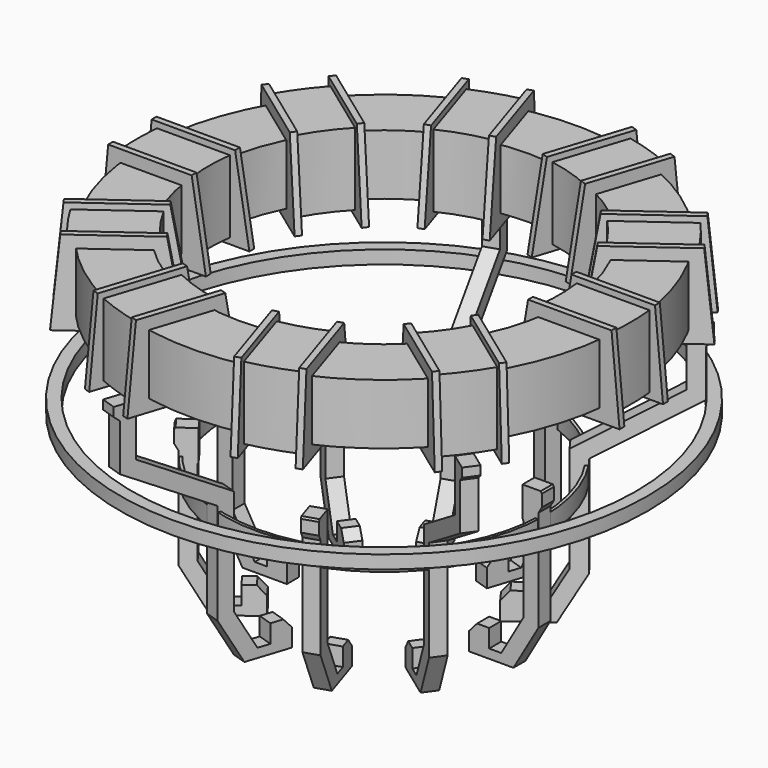
from build123d import *

# Parameters (mm, degrees)
F0_R      = 40
F0_R_2    = 30
F1_DEPTH  = 10
F3_DEPTH  = 5
F5_T      = -1
F6_COUNT  = 10
F8_DEPTH  = 1.25
F9_COUNT  = 5
F11_START = -22
F10_R     = 26.5919608623
F10_R_2   = 26.1099514262
F11_DEPTH = 3
F13_START = -13.5
F12_R     = 43.7427271605
F12_R_2   = 41.7427271605
F13_DEPTH = 2.2


with BuildPart() as f1:
    # F0 (on Top) → F1 (new body)
    with BuildSketch(Plane.XY):
        Circle(F0_R)
        Circle(F0_R_2, mode=Mode.SUBTRACT)
    extrude(amount=F1_DEPTH)


with BuildPart() as f3:
    # F2 (on Front) → F3 (new body, symmetric)
    with BuildSketch(Plane.XZ):
        Polygon((-27.8717149049, 12), (-41.7029336095, 12), (-43.0326461792, -2), (-35.168197006, -2), (-35.168197006, 1.563154161), (-33.2385227084, 1.563154161), (-33.2385227084, -2), (-25.5132131279, -2), align=None)
    extrude(amount=F3_DEPTH, both=True)

    # F4: cut F1
    add(f1.part, mode=Mode.SUBTRACT)

    # F5
    f5_openings = [f3.faces().sort_by_distance(p)[0] for p in [
        (-34.787324, 0, 12),
        (-42.36779, 0, 5),
        (-39.100422, 0, -2),
        (-29.375868, 0, -2),
        (-26.692464, 0, 5),
        (-35.168197, 0, -1),
        (-33.238523, 0, -1),
    ]]
    offset(amount=F5_T, openings=f5_openings, kind=Kind.INTERSECTION)


with BuildPart() as f6_1:
    # F6: instance of F3
    add(f3.part.rotate(Axis((0, 0, 0), (0, 0, -1)), 1 * 360 / F6_COUNT))


with BuildPart() as f6_2:
    # F6: instance of F3
    add(f3.part.rotate(Axis((0, 0, 0), (0, 0, -1)), 2 * 360 / F6_COUNT))


with BuildPart() as f6_3:
    # F6: instance of F3
    add(f3.part.rotate(Axis((0, 0, 0), (0, 0, -1)), 3 * 360 / F6_COUNT))


with BuildPart() as f6_4:
    # F6: instance of F3
    add(f3.part.rotate(Axis((0, 0, 0), (0, 0, -1)), 4 * 360 / F6_COUNT))


with BuildPart() as f6_5:
    # F6: instance of F3
    add(f3.part.rotate(Axis((0, 0, 0), (0, 0, -1)), 5 * 360 / F6_COUNT))


with BuildPart() as f6_6:
    # F6: instance of F3
    add(f3.part.rotate(Axis((0, 0, 0), (0, 0, -1)), 6 * 360 / F6_COUNT))


with BuildPart() as f6_7:
    # F6: instance of F3
    add(f3.part.rotate(Axis((0, 0, 0), (0, 0, -1)), 7 * 360 / F6_COUNT))


with BuildPart() as f6_8:
    # F6: instance of F3
    add(f3.part.rotate(Axis((0, 0, 0), (0, 0, -1)), 8 * 360 / F6_COUNT))


with BuildPart() as f6_9:
    # F6: instance of F3
    add(f3.part.rotate(Axis((0, 0, 0), (0, 0, -1)), 9 * 360 / F6_COUNT))


with BuildPart() as f8:
    # F7 (on Front) → F8 (new body, symmetric)
    with BuildSketch(Plane.XZ):
        Polygon((16.4247393726, -40.5), (15.1018637171, -42), (15.1018637171, -45), (22.4454653148, -45), (26.5919608623, -37.8180590384), (26.5919608623, -21.0505625422), (27.1483764005, -20.0868225598), (27.1483764005, -18.0868225598), (26.960394784, -17.7612288491), (23.960394784, -17.7612288491), (23.960394784, -22.7612288491), (24.0919608623, -22.9891079812), (24.0919608623, -37.1481860573), (20.4247393726, -43.5), (18.4247393726, -43.5), (18.4247393726, -40.5), align=None)
    extrude(amount=F8_DEPTH, both=True)


with BuildPart() as f8b:
    # F7 (on Front) → F8, piece 2 (new body, symmetric)
    with BuildSketch(Plane.XZ):
        Polygon((-22.4454653148, -45), (-15.1018637171, -45), (-15.1018637171, -42), (-16.4247393726, -40.5), (-18.4247393726, -40.5), (-18.4247393726, -43.5), (-20.4247393726, -43.5), (-24.0919608623, -37.1481860573), (-24.0919608623, -19.6252373701), (-39.2427271605, -10.6570772099), (-39.2427271605, -2), (-42.6839329302, -2), (-42.6839329302, -3.4913108684), (-41.7427271605, -4.2980583385), (-41.7427271605, -12.082402382), (-26.5919608623, -21.0505625422), (-26.5919608623, -37.8180590384), align=None)
    extrude(amount=F8_DEPTH, both=True)


with BuildPart() as f9_1:
    # F9: instance of F8
    add(f8.part.rotate(Axis((0, 0, 0), (0, 0, 1)), 1 * 360 / F9_COUNT))


with BuildPart() as f9_2:
    # F9: instance of F8
    add(f8.part.rotate(Axis((0, 0, 0), (0, 0, 1)), 2 * 360 / F9_COUNT))


with BuildPart() as f9_3:
    # F9: instance of F8
    add(f8.part.rotate(Axis((0, 0, 0), (0, 0, 1)), 3 * 360 / F9_COUNT))


with BuildPart() as f9_4:
    # F9: instance of F8
    add(f8.part.rotate(Axis((0, 0, 0), (0, 0, 1)), 4 * 360 / F9_COUNT))


with BuildPart() as f9_5:
    # F9: instance of F8b
    add(f8b.part.rotate(Axis((0, 0, 0), (0, 0, 1)), 1 * 360 / F9_COUNT))


with BuildPart() as f9_6:
    # F9: instance of F8b
    add(f8b.part.rotate(Axis((0, 0, 0), (0, 0, 1)), 2 * 360 / F9_COUNT))


with BuildPart() as f9_7:
    # F9: instance of F8b
    add(f8b.part.rotate(Axis((0, 0, 0), (0, 0, 1)), 3 * 360 / F9_COUNT))


with BuildPart() as f9_8:
    # F9: instance of F8b
    add(f8b.part.rotate(Axis((0, 0, 0), (0, 0, 1)), 4 * 360 / F9_COUNT))


with BuildPart() as f11:
    # F10 (on Top) → F11 (new body)
    with BuildSketch(Plane.XY.offset(F11_START)):
        Circle(F10_R)
        Circle(F10_R_2, mode=Mode.SUBTRACT)
    extrude(amount=-F11_DEPTH)


with BuildPart() as f13:
    # F12 (on Top) → F13 (new body)
    with BuildSketch(Plane.XY.offset(F13_START)):
        Circle(F12_R)
        Circle(F12_R_2, mode=Mode.SUBTRACT)
    extrude(amount=-F13_DEPTH)


solid = Compound([f1.part, f3.part, f6_1.part, f6_2.part, f6_3.part, f6_4.part, f6_5.part, f6_6.part, f6_7.part, f6_8.part, f6_9.part, f8.part, f8b.part, f9_1.part, f9_2.part, f9_3.part, f9_4.part, f9_5.part, f9_6.part, f9_7.part, f9_8.part, f11.part, f13.part])
